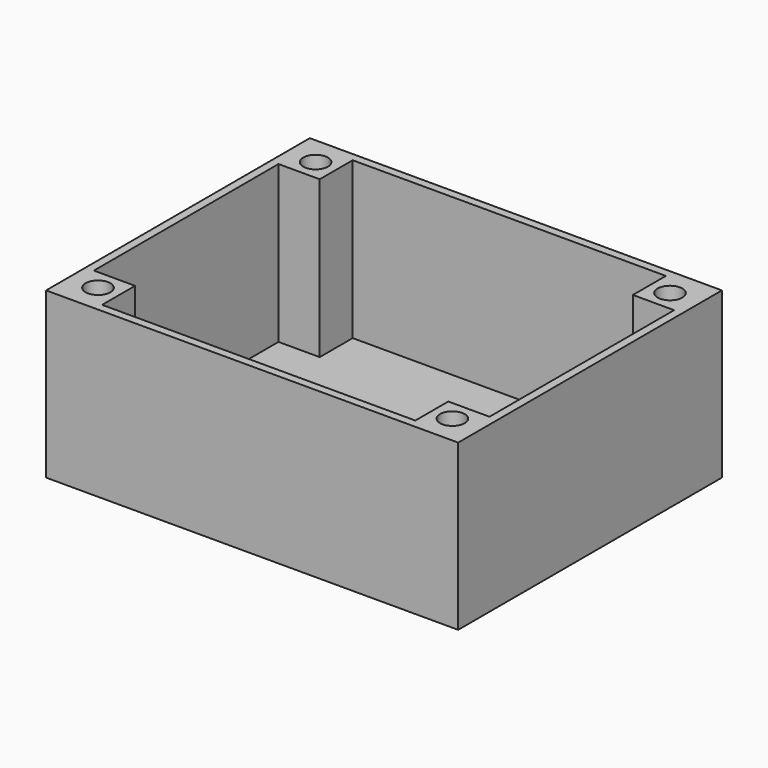
from build123d import *

# Parameters (mm, degrees)
F0_W      = 50
F0_H      = 40
F1_DEPTH  = 20
F2_W      = 48
F2_H      = 38
F3_DEPTH  = 19
F4_W      = 5
F4_H      = 5
F5_DEPTH  = 19
F6_R      = 1.5
F7_DEPTH  = 10
F9_R      = 2.5
F9_R_2    = 1.5
F10_DEPTH = 5


with BuildPart() as f1:
    # F0 (on Top) → F1 (new body)
    with BuildSketch(Plane.XY):
        with Locations((-39.054142, 36.971296)):
            Rectangle(F0_W, F0_H)
    extrude(amount=F1_DEPTH)

    # F2 (on face) → F3 (cut)
    with BuildSketch(Plane.XY.offset(20)):
        with Locations((-39.054142, 36.971296)):
            Rectangle(F2_W, F2_H)
    extrude(amount=-F3_DEPTH, mode=Mode.SUBTRACT)

    # F4 (on face) → F5 (join)
    with BuildSketch(Plane.XY.offset(1)):
        with Locations((-60.554142, 53.471296)):
            Rectangle(F4_W, F4_H)
        with Locations((-60.554142, 20.471296)):
            Rectangle(F4_W, F4_H)
        with Locations((-17.554142, 53.471296)):
            Rectangle(F4_W, F4_H)
        with Locations((-17.554142, 20.471296)):
            Rectangle(F4_W, F4_H)
    extrude(amount=F5_DEPTH)

    # F6 (on face) → F7 (cut)
    with BuildSketch(Plane.XY.offset(20)):
        with Locations((-60.554142, 53.471296)):
            Circle(F6_R)
        with Locations((-60.554142, 20.471296)):
            Circle(F6_R)
        with Locations((-17.554142, 20.471296)):
            Circle(F6_R)
        with Locations((-17.554142, 53.471296)):
            Circle(F6_R)
    extrude(amount=-F7_DEPTH, mode=Mode.SUBTRACT)

    # F9 (on face) → F10 (join)
    with BuildSketch(Plane.XY.offset(1)):
        with Locations((-43.054142, 32.971296)):
            Circle(F9_R)
        with Locations((-43.054142, 32.971296)):
            Circle(F9_R_2, mode=Mode.SUBTRACT)
        with Locations((-28.054142, 42.971296)):
            Circle(F9_R)
        with Locations((-28.054142, 42.971296)):
            Circle(F9_R_2, mode=Mode.SUBTRACT)
    extrude(amount=F10_DEPTH)


solid = f1.part
